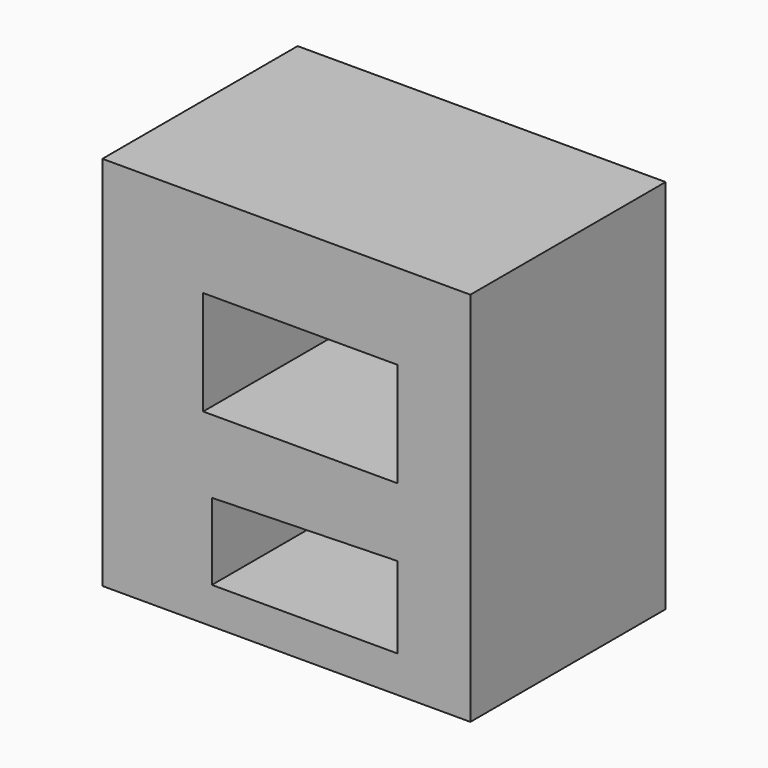
from build123d import *

# Parameters (mm, degrees)
F0_W     = 59.362259
F0_H     = 60.670675
F0_W_2   = 31.340324
F0_H_2   = 16.825852
F1_DEPTH = 39.37


with BuildPart() as f1:
    # F0 (on Front) → F1 (new body)
    with BuildSketch(Plane.XZ):
        with Locations((1.013951, 6.443456)):
            Rectangle(F0_W, F0_H)
        Polygon((-11.003056, -17.996007), (-11.003056, -5.620994), (18.930315, -4.868698), (18.930315, -17.996007), align=None, mode=Mode.SUBTRACT)
        with Locations((3.260153, 14.586985)):
            Rectangle(F0_W_2, F0_H_2, mode=Mode.SUBTRACT)
    extrude(amount=F1_DEPTH)


solid = f1.part
